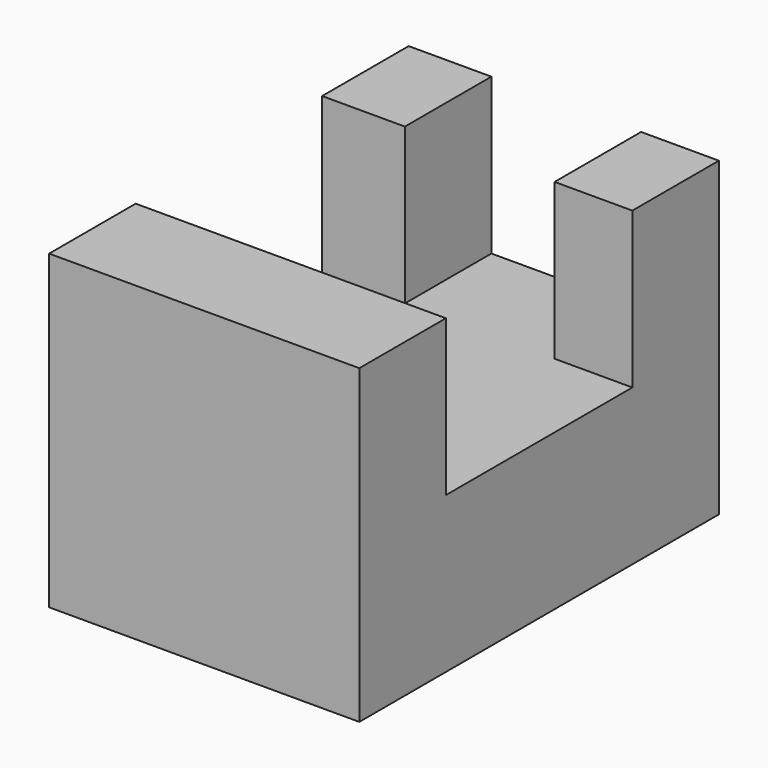
from build123d import *

# Parameters (mm, degrees)
F1_DEPTH = 50
F2_W     = 24.133066
F2_H     = 28.324598
F3_DEPTH = 100


with BuildPart() as f1:
    # F0 (on Right) → F1 (new body)
    with BuildSketch(Plane.YZ):
        Polygon((-18.785782, 25.097806), (-36.21899, 25.097806), (-36.21899, -25.097806), (36.21899, -25.097806), (36.21899, 25.097806), (18.785784, 25.097806), (18.785784, 0), (-18.785782, 0), align=None)
    extrude(amount=F1_DEPTH)

    # F2 (on Front) → F3 (cut)
    with BuildSketch(Plane.XZ):
        with Locations((25.403227, 14.162299)):
            Rectangle(F2_W, F2_H)
    extrude(amount=-F3_DEPTH, mode=Mode.SUBTRACT)


solid = f1.part
